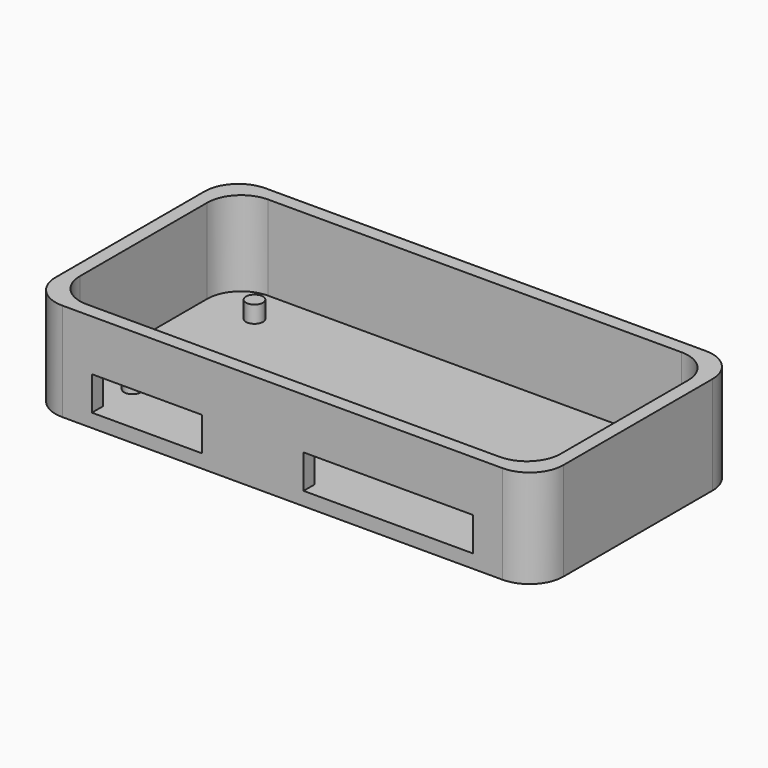
from build123d import *

# Parameters (mm, degrees)
F0_W     = 76.2
F0_H     = 38.1
F1_DEPTH = 2.032
F2_W     = 76.2
F2_H     = 38.1
F2_W_2   = 72.136
F2_H_2   = 34.036
F3_DEPTH = 12.7
F4_R     = 1.27
F5_DEPTH = 2.54
F6_W     = 16.51
F6_H     = 5.08
F6_W_2   = 25.4
F7_DEPTH = 2.032
F8_R     = 5.08
F9_R     = 5.08


with BuildPart() as f1:
    # F0 (on Top) → F1 (new body)
    with BuildSketch(Plane.XY):
        Rectangle(F0_W, F0_H)
    extrude(amount=F1_DEPTH)

    # F2 (on face) → F3 (join)
    with BuildSketch(Plane.XY.offset(2.032)):
        Rectangle(F2_W, F2_H)
        Rectangle(F2_W_2, F2_H_2, mode=Mode.SUBTRACT)
    extrude(amount=F3_DEPTH)

    # F4 (on face) → F5 (join)
    with BuildSketch(Plane.XY.offset(2.032)):
        with Locations((-28.575, 11.43)):
            Circle(F4_R)
        with Locations((-28.575, -11.43)):
            Circle(F4_R)
        with Locations((28.575, -11.43)):
            Circle(F4_R)
        with Locations((28.575, 11.43)):
            Circle(F4_R)
    extrude(amount=F5_DEPTH)

    # F6 (on face) → F7 (cut)
    with BuildSketch(Plane.XZ.offset(19.05)):
        with Locations((-20.32, 4.572)):
            Rectangle(F6_W, F6_H)
        with Locations((15.875, 4.572)):
            Rectangle(F6_W_2, F6_H)
    extrude(amount=-F7_DEPTH, mode=Mode.SUBTRACT)

    # F8
    f8_edges = [f1.edges().sort_by_distance(p)[0] for p in [
        (-36.068, 17.018, 8.382),
        (-36.068, -17.018, 8.382),
        (36.068, 17.018, 8.382),
        (36.068, -17.018, 8.382),
    ]]
    fillet(f8_edges, radius=F8_R)

    # F9
    f9_edges = [f1.edges().sort_by_distance(p)[0] for p in [
        (-38.1, -19.05, 7.366),
        (38.1, -19.05, 7.366),
        (38.1, 19.05, 7.366),
        (-38.1, 19.05, 7.366),
    ]]
    fillet(f9_edges, radius=F9_R)


solid = f1.part
